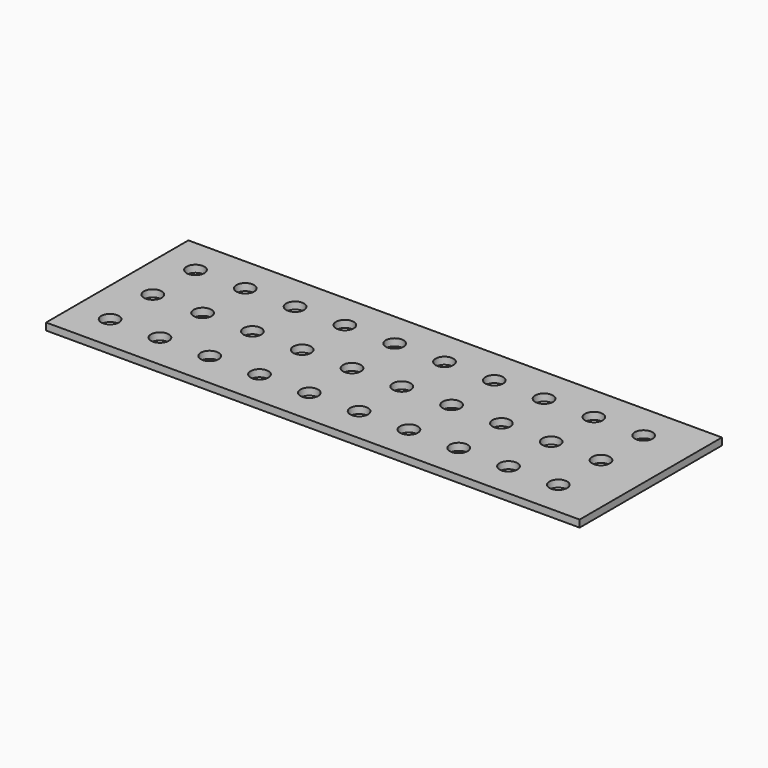
from build123d import *

# Parameters (mm, degrees)
F0_W     = 150
F0_H     = 50
F0_R     = 2.5
F1_DEPTH = 2


with BuildPart() as f1:
    # F0 (on Top) → F1 (new body)
    with BuildSketch(Plane.XY):
        with Locations((0, 25)):
            Rectangle(F0_W, F0_H)
        with Locations((-65, 10)):
            Circle(F0_R, mode=Mode.SUBTRACT)
        with Locations((-51, 10)):
            Circle(F0_R, mode=Mode.SUBTRACT)
        with Locations((-37, 10)):
            Circle(F0_R, mode=Mode.SUBTRACT)
        with Locations((-23, 10)):
            Circle(F0_R, mode=Mode.SUBTRACT)
        with Locations((-9, 10)):
            Circle(F0_R, mode=Mode.SUBTRACT)
        with Locations((5, 10)):
            Circle(F0_R, mode=Mode.SUBTRACT)
        with Locations((19, 10)):
            Circle(F0_R, mode=Mode.SUBTRACT)
        with Locations((33, 10)):
            Circle(F0_R, mode=Mode.SUBTRACT)
        with Locations((47, 10)):
            Circle(F0_R, mode=Mode.SUBTRACT)
        with Locations((61, 10)):
            Circle(F0_R, mode=Mode.SUBTRACT)
        with Locations((-65, 25)):
            Circle(F0_R, mode=Mode.SUBTRACT)
        with Locations((-51, 25)):
            Circle(F0_R, mode=Mode.SUBTRACT)
        with Locations((-37, 25)):
            Circle(F0_R, mode=Mode.SUBTRACT)
        with Locations((-23, 25)):
            Circle(F0_R, mode=Mode.SUBTRACT)
        with Locations((-9, 25)):
            Circle(F0_R, mode=Mode.SUBTRACT)
        with Locations((-65, 40)):
            Circle(F0_R, mode=Mode.SUBTRACT)
        with Locations((-51, 40)):
            Circle(F0_R, mode=Mode.SUBTRACT)
        with Locations((-37, 40)):
            Circle(F0_R, mode=Mode.SUBTRACT)
        with Locations((-23, 40)):
            Circle(F0_R, mode=Mode.SUBTRACT)
        with Locations((-9, 40)):
            Circle(F0_R, mode=Mode.SUBTRACT)
        with Locations((5, 25)):
            Circle(F0_R, mode=Mode.SUBTRACT)
        with Locations((19, 25)):
            Circle(F0_R, mode=Mode.SUBTRACT)
        with Locations((33, 25)):
            Circle(F0_R, mode=Mode.SUBTRACT)
        with Locations((47, 25)):
            Circle(F0_R, mode=Mode.SUBTRACT)
        with Locations((61, 25)):
            Circle(F0_R, mode=Mode.SUBTRACT)
        with Locations((5, 40)):
            Circle(F0_R, mode=Mode.SUBTRACT)
        with Locations((19, 40)):
            Circle(F0_R, mode=Mode.SUBTRACT)
        with Locations((33, 40)):
            Circle(F0_R, mode=Mode.SUBTRACT)
        with Locations((47, 40)):
            Circle(F0_R, mode=Mode.SUBTRACT)
        with Locations((61, 40)):
            Circle(F0_R, mode=Mode.SUBTRACT)
    extrude(amount=F1_DEPTH)


solid = f1.part
